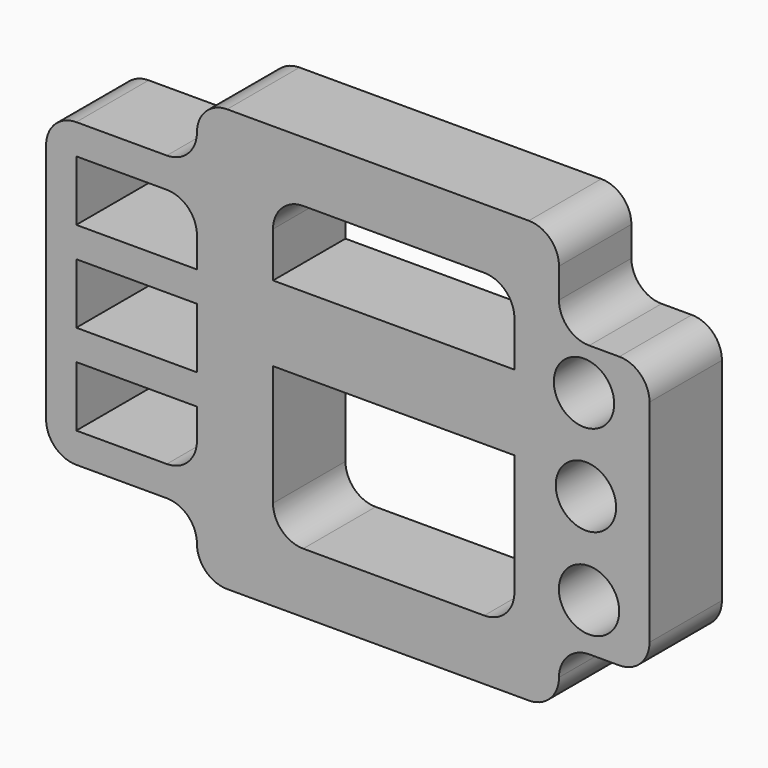
from build123d import *

# Parameters (mm, degrees)
F0_R     = 10
F0_W     = 40
F0_H     = 20
F1_DEPTH = 30


with BuildPart() as f1:
    # F0 (on Front) → F1 (new body)
    with BuildSketch(Plane.XZ):
        with BuildLine():
            Line((75.732799, 90.009839), (-24.267201, 90.009839))
            ThreePointArc((-24.267201, 90.009839), (-31.338269, 87.080907), (-34.267201, 80.009839))
            ThreePointArc((-34.267201, 80.009839), (-37.196133, 72.938771), (-44.267201, 70.009839))
            Line((-44.267201, 70.009839), (-74.267201, 70.009839))
            ThreePointArc((-74.267201, 70.009839), (-81.338269, 67.080907), (-84.267201, 60.009839))
            Line((-84.267201, 60.009839), (-84.267201, -19.990161))
            ThreePointArc((-84.267201, -19.990161), (-81.338269, -27.061229), (-74.267201, -29.990161))
            Line((-74.267201, -29.990161), (-44.267201, -29.990161))
            ThreePointArc((-44.267201, -29.990161), (-37.196133, -32.919093), (-34.267201, -39.990161))
            ThreePointArc((-34.267201, -39.990161), (-31.338269, -47.061229), (-24.267201, -49.990161))
            Line((-24.267201, -49.990161), (75.732799, -49.990161))
            ThreePointArc((75.732799, -49.990161), (82.803867, -47.061229), (85.732799, -39.990161))
            ThreePointArc((85.732799, -39.990161), (88.661731, -32.919093), (95.732799, -29.990161))
            Line((95.732799, -29.990161), (105.732799, -29.990161))
            ThreePointArc((105.732799, -29.990161), (112.803867, -27.061229), (115.732799, -19.990161))
            Line((115.732799, -19.990161), (115.732799, 50.099277))
            ThreePointArc((115.732799, 50.099277), (112.803867, 57.170345), (105.732799, 60.099277))
            Line((105.732799, 60.099277), (95.732799, 60.099277))
            ThreePointArc((95.732799, 60.099277), (88.661731, 63.028209), (85.732799, 70.099277))
            Line((85.732799, 70.099277), (85.732799, 80.009839))
            ThreePointArc((85.732799, 80.009839), (82.803867, 87.080907), (75.732799, 90.009839))
        make_face()
        with BuildLine():
            Line((-44.267201, -20), (-74.267201, -20))
            Line((-74.267201, -20), (-74.267201, 0))
            Line((-74.267201, 0), (-34.267201, 0))
            Line((-34.267201, 0), (-34.267201, -10))
            ThreePointArc((-34.267201, -10), (-37.196133, -17.071068), (-44.267201, -20))
        make_face(mode=Mode.SUBTRACT)
        with BuildLine():
            ThreePointArc((70.956033, -19.990161), (68.0271, -27.061229), (60.956033, -29.990161))
            Line((60.956033, -29.990161), (0.956033, -29.990161))
            ThreePointArc((0.956033, -29.990161), (-6.115035, -27.061229), (-9.043967, -19.990161))
            Line((-9.043967, -19.990161), (-9.043967, 20.009839))
            Line((-9.043967, 20.009839), (70.956033, 20.009839))
            Line((70.956033, 20.009839), (70.956033, -19.990161))
        make_face(mode=Mode.SUBTRACT)
        with Locations((95.693012, -14.23213)):
            Circle(F0_R, mode=Mode.SUBTRACT)
        with Locations((94.65915, 15.750051)):
            Circle(F0_R, mode=Mode.SUBTRACT)
        with Locations((-54.267201, 20.009839)):
            Rectangle(F0_W, F0_H, mode=Mode.SUBTRACT)
        with BuildLine():
            Line((-74.267201, 40.019678), (-74.267201, 60.019678))
            Line((-74.267201, 60.019678), (-44.267201, 60.019678))
            ThreePointArc((-44.267201, 60.019678), (-37.196133, 57.090745), (-34.267201, 50.019678))
            Line((-34.267201, 50.019678), (-34.267201, 40.019678))
            Line((-34.267201, 40.019678), (-74.267201, 40.019678))
        make_face(mode=Mode.SUBTRACT)
        with Locations((94.02099, 45.743262)):
            Circle(F0_R, mode=Mode.SUBTRACT)
        with BuildLine():
            ThreePointArc((-9.043967, 60.009839), (-6.115035, 67.080907), (0.956033, 70.009839))
            Line((0.956033, 70.009839), (60.956033, 70.009839))
            ThreePointArc((60.956033, 70.009839), (68.0271, 67.080907), (70.956033, 60.009839))
            Line((70.956033, 60.009839), (70.956033, 45.009839))
            Line((70.956033, 45.009839), (-9.043967, 45.009839))
            Line((-9.043967, 45.009839), (-9.043967, 60.009839))
        make_face(mode=Mode.SUBTRACT)
    extrude(amount=F1_DEPTH)


solid = f1.part
